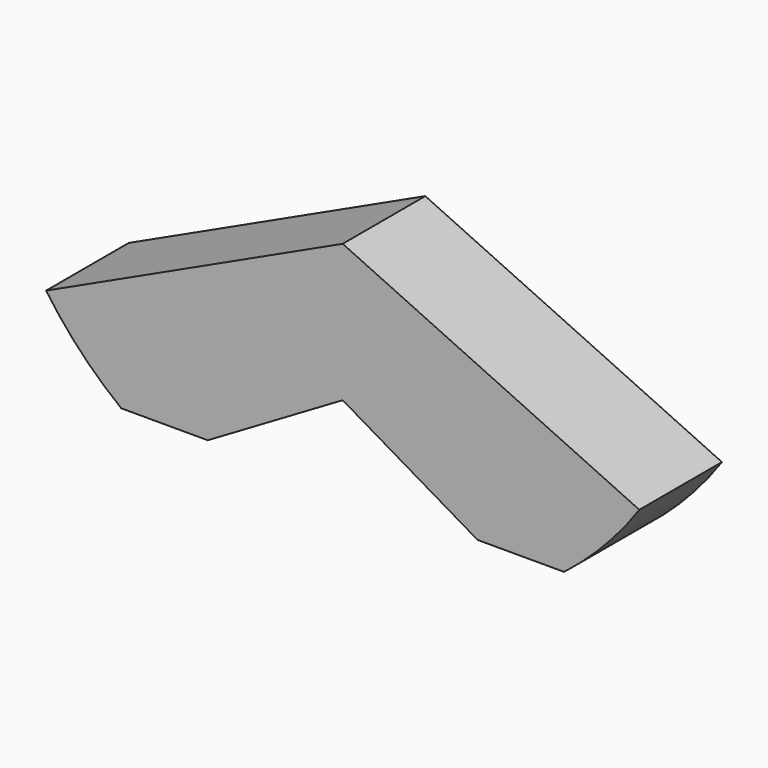
from build123d import *

# Parameters (mm, degrees)
F1_DEPTH = 30
F3_DEPTH = 39.624


with BuildPart() as f1:
    # F0 (on Front) → F1 (new body)
    with BuildSketch(Plane.XZ):
        with BuildLine():
            ThreePointArc((68.123961, -37.994432), (79.922035, -27.327051), (89.973475, -15))
            Line((89.973475, -15), (3.805035, 25))
            Line((3.805035, 25), (-82.363405, -15))
            ThreePointArc((-82.363405, -15), (-72.311965, -27.327051), (-60.513891, -37.994432))
            Line((-60.513891, -37.994432), (-35.392356, -37.994432))
            Line((-35.392356, -37.994432), (3.805035, -15))
            Line((3.805035, -15), (43.002567, -37.994432))
            Line((43.002567, -37.994432), (68.123961, -37.994432))
        make_face()
    extrude(amount=F1_DEPTH)

    # F2 (on face) → F3 (cut)
    with BuildSketch(Plane(origin=(0, 0, -37.994432), x_dir=(1, 0, 0), z_dir=(0, 0, -1))):
        Polygon((0, 4), (26.541401, 4), (26.541401, 26), (-18.458599, 26), (-18.458599, 4), align=None)
    extrude(amount=-F3_DEPTH, mode=Mode.SUBTRACT)


solid = f1.part
